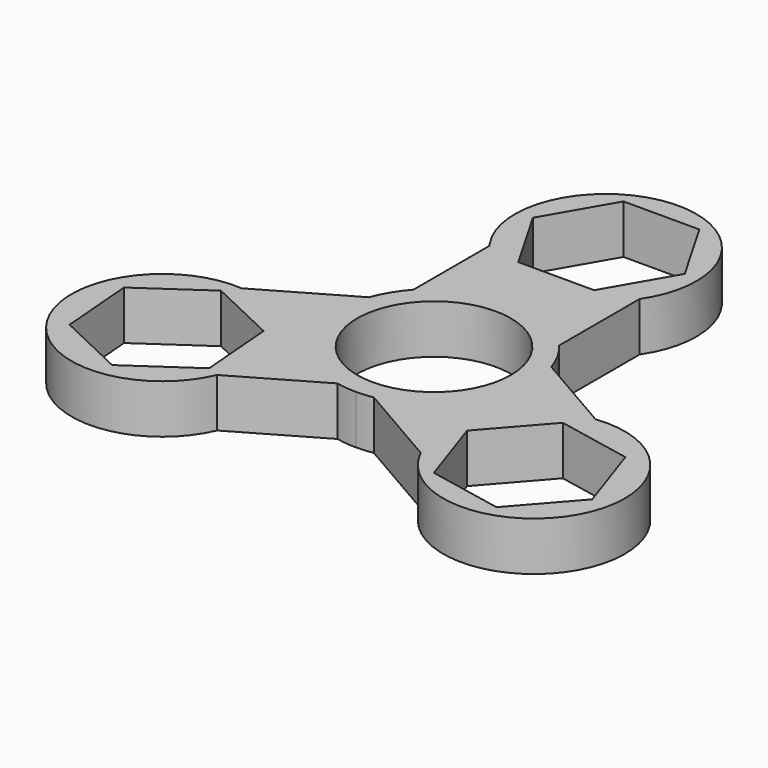
from build123d import *

# Parameters (mm, degrees)
F1_DEPTH  = 7
F1_FACE_R = 11
F3_DEPTH  = 45.5


with BuildPart() as f1:
    # F0 (on Top) → F1 (new body)
    with BuildSketch(Plane.XY):
        with BuildLine():
            ThreePointArc((-2.885217, -13.699472), (-1.450413, -13.924665), (0, -14))
            ThreePointArc((0, -14), (1.212509, -13.947395), (2.415907, -13.789974))
            Line((2.415907, -13.789974), (14.89071, -20.992305))
            ThreePointArc((14.89071, -20.992305), (37.998969, -21.627676), (25.088992, -2.451445))
            Line((25.088992, -2.451445), (13.306699, 4.351065))
            ThreePointArc((13.306699, 4.351065), (12.242078, 6.792019), (10.734515, 8.987224))
            Line((10.734515, 8.987224), (10.734515, 23.391886))
            ThreePointArc((10.734515, 23.391886), (0, 43.724702), (-10.734515, 23.391886))
            ThreePointArc((-10.734515, 23.391886), (-10.576305, 23.173866), (-10.421482, 22.953427))
            Line((-10.421482, 22.953427), (-10.421482, 9.348407))
            ThreePointArc((-10.421482, 9.348407), (-12.0031, 7.205941), (-13.150422, 4.802751))
            Line((-13.150422, 4.802751), (-25.625225, -2.39958))
            ThreePointArc((-25.625225, -2.39958), (-37.729602, -22.094234), (-14.66751, -20.501982))
            Line((-14.66751, -20.501982), (-2.885217, -13.699472))
        make_face()
        with BuildLine():
            ThreePointArc((0, -11), (-7.778175, 7.778175), (11, 0))
            ThreePointArc((11, 0), (7.778175, -7.778175), (0, -11))
        make_face(mode=Mode.SUBTRACT)
    extrude(amount=F1_DEPTH)

    # F2 (on Top) + F1_face (on face) → F3 (cut)
    with BuildSketch(Plane.XY):
        Polygon((-25.32137, -25.958319), (-16.374294, -19.782603), (-17.249084, -8.94635), (-27.070949, -4.285813), (-36.018025, -10.46153), (-35.143235, -21.297783), align=None)
        Polygon((36.897277, -17.812624), (33.407967, -7.516298), (22.746431, -5.389966), (15.574206, -13.559961), (19.063516, -23.856288), (29.725052, -25.98262), align=None)
        Polygon((5.435753, 40.696717), (-5.435753, 40.696717), (-10.871506, 31.281717), (-5.435753, 21.866717), (5.435753, 21.866717), (10.871506, 31.281717), align=None)
    with BuildSketch(Plane(origin=(8e-06, -1.8e-05, 7), x_dir=(1, 0, 0), z_dir=(0, 0, 1))):
        with BuildLine():
            Line((-14.667518, -20.501964), (-2.885225, -13.699454))
            ThreePointArc((-2.885225, -13.699454), (-0.238987, -13.997942), (2.415899, -13.789957))
            Line((2.415899, -13.789957), (14.890702, -20.992287))
            ThreePointArc((14.890702, -20.992287), (37.998961, -21.627658), (25.088984, -2.451427))
            Line((25.088984, -2.451427), (13.306691, 4.351083))
            ThreePointArc((13.306691, 4.351083), (12.24207, 6.792037), (10.734507, 8.987242))
            Line((10.734507, 8.987242), (10.734507, 23.391904))
            ThreePointArc((10.734507, 23.391904), (-8e-06, 43.72472), (-10.734523, 23.391904))
            ThreePointArc((-10.734523, 23.391904), (-10.576313, 23.173884), (-10.42149, 22.953445))
            Line((-10.42149, 22.953445), (-10.42149, 9.348425))
            ThreePointArc((-10.42149, 9.348425), (-12.003108, 7.205959), (-13.15043, 4.802769))
            Line((-13.15043, 4.802769), (-25.625233, -2.399562))
            ThreePointArc((-25.625233, -2.399562), (-37.72961, -22.094217), (-14.667518, -20.501964))
        make_face()
        with Locations((-8e-06, 1.8e-05)):
            Circle(F1_FACE_R, mode=Mode.SUBTRACT)
    extrude(amount=F3_DEPTH, mode=Mode.SUBTRACT)


solid = f1.part
